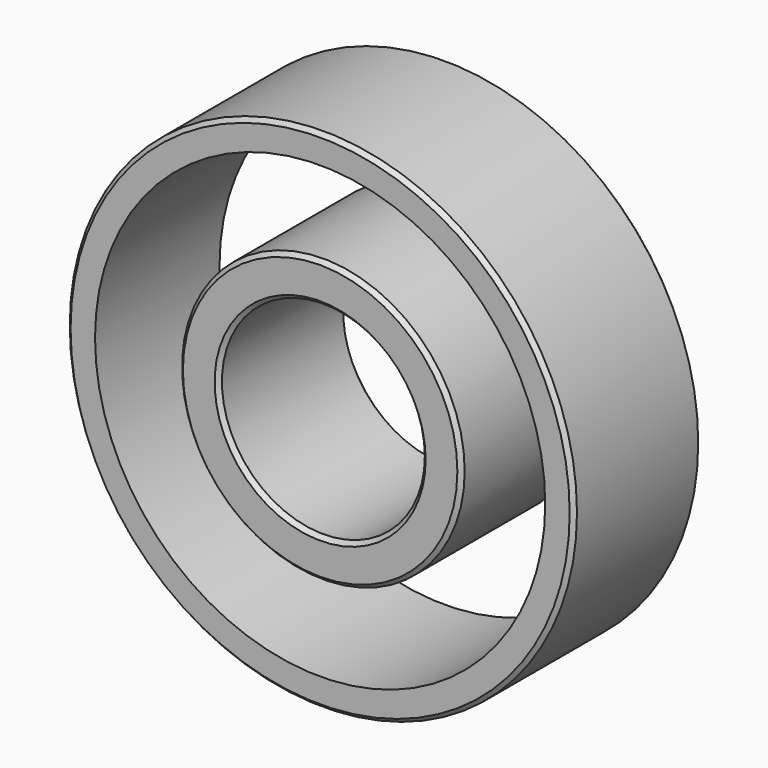
from build123d import *

# Parameters (mm, degrees)
F0_R     = 12.5
F0_R_2   = 11.095
F0_R_3   = 6.965
F0_R_4   = 5
F1_DEPTH = 7.87
F2_SIZE  = 0.2
F3_SIZE  = 0.2
F4_SIZE  = 0.2
F5_SIZE  = 0.2
F6_SIZE  = 0.2


with BuildPart() as f1:
    # F0 (on Front) → F1 (new body)
    with BuildSketch(Plane.XZ):
        Circle(F0_R)
        Circle(F0_R_2, mode=Mode.SUBTRACT)
        Circle(F0_R_3)
        Circle(F0_R_4, mode=Mode.SUBTRACT)
    extrude(amount=F1_DEPTH)

    # F2
    f2_edges = [f1.edges().sort_by_distance(p)[0] for p in [
        (-5, -7.87, 0),
    ]]
    chamfer(f2_edges, length=F2_SIZE)

    # F3
    f3_edges = [f1.edges().sort_by_distance(p)[0] for p in [
        (-5, 0, 0),
    ]]
    chamfer(f3_edges, length=F3_SIZE)

    # F4
    f4_edges = [f1.edges().sort_by_distance(p)[0] for p in [
        (-12.5, -7.87, 0),
        (-12.5, 0, 0),
    ]]
    chamfer(f4_edges, length=F4_SIZE)

    # F5
    f5_edges = [f1.edges().sort_by_distance(p)[0] for p in [
        (-11.095, 0, 0),
        (-6.965, 0, 0),
    ]]
    chamfer(f5_edges, length=F5_SIZE)

    # F6
    f6_edges = [f1.edges().sort_by_distance(p)[0] for p in [
        (-6.965, -7.87, 0),
    ]]
    chamfer(f6_edges, length=F6_SIZE)


solid = f1.part
